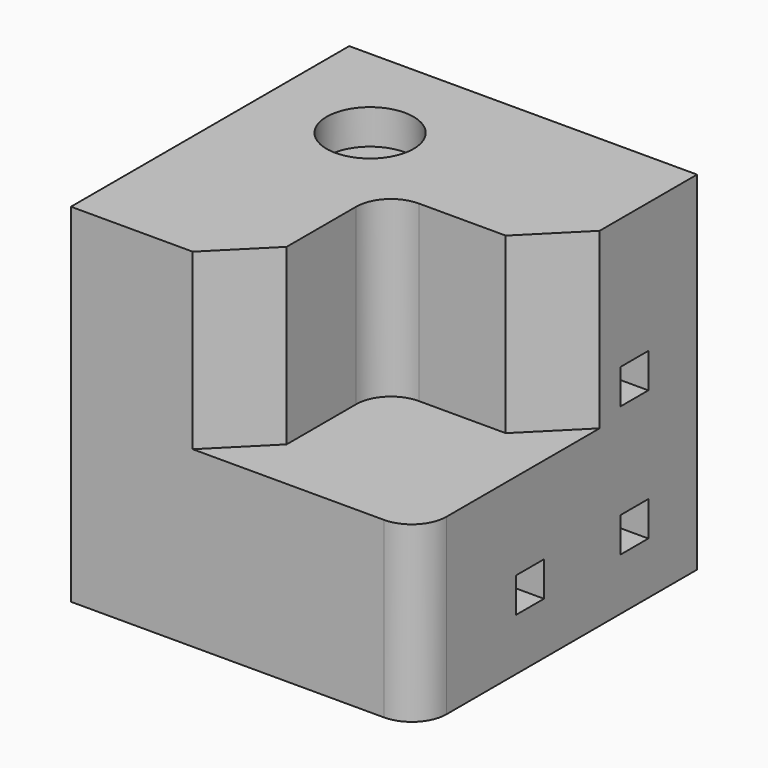
from build123d import *

# Parameters (mm, degrees)
F1_DEPTH  = 50
F2_DEPTH  = 50
F3_R      = 12.5
F4_DEPTH  = 10
F5_DEPTH  = 10
F6_W      = 10
F6_H      = 10
F7_DEPTH  = 100
F8_DEPTH  = 100
F9_DEPTH  = 100
F11_ANGLE = 90


with BuildPart() as f1:
    # F0 (on Right) → F1 (new body)
    with BuildSketch(Plane.YZ):
        with BuildLine():
            Line((66.8447806998, -31.704402437), (66.8447806998, 68.295597563))
            Line((66.8447806998, 68.295597563), (-33.1552193002, 68.295597563))
            Line((-33.1552193002, 68.295597563), (-33.1552193002, 33.295597563))
            Line((-33.1552193002, 33.295597563), (-18.1553634487, 18.2957411159))
            Line((-18.1553634487, 18.2957411159), (6.8449245505, 18.2957411159))
            ThreePointArc((6.8449245505, 18.2957411159), (13.9159923623, 15.3668089278), (16.8449245505, 8.2957411159))
            Line((16.8449245505, 8.2957411159), (16.8449245505, -16.7045462877))
            Line((16.8449245505, -16.7045462877), (31.8447806998, -31.704402437))
            Line((31.8447806998, -31.704402437), (66.8447806998, -31.704402437))
        make_face()
    extrude(amount=F1_DEPTH)

    # F1_face (on face) + F0 (on Right) → F2 (join)
    with BuildSketch(Plane(origin=(0, 26.0207710076, 27.4715879225), x_dir=(0, 1, 0), z_dir=(-1, 0, 0))):
        with BuildLine():
            Line((40.8240096922, -40.8240096405), (40.8240096922, 59.1759903595))
            Line((40.8240096922, 59.1759903595), (5.8240096922, 59.1759903595))
            Line((5.8240096922, 59.1759903595), (-9.1758464571, 44.1761342102))
            Line((-9.1758464571, 44.1761342102), (-9.1758464571, 19.1758468066))
            ThreePointArc((-9.1758464571, 19.1758468066), (-12.1047786452, 12.1047789947), (-19.1758464571, 9.1758468066))
            Line((-19.1758464571, 9.1758468066), (-44.1761344563, 9.1758468066))
            Line((-44.1761344563, 9.1758468066), (-59.1759903078, -5.8240096405))
            Line((-59.1759903078, -5.8240096405), (-59.1759903078, -40.8240096405))
            Line((-59.1759903078, -40.8240096405), (40.8240096922, -40.8240096405))
        make_face()
    with BuildSketch(Plane.YZ):
        with BuildLine():
            Line((66.8447806998, -31.704402437), (66.8447806998, 68.295597563))
            Line((66.8447806998, 68.295597563), (-33.1552193002, 68.295597563))
            Line((-33.1552193002, 68.295597563), (-33.1552193002, 33.295597563))
            Line((-33.1552193002, 33.295597563), (-18.1553634487, 18.2957411159))
            Line((-18.1553634487, 18.2957411159), (6.8449245505, 18.2957411159))
            ThreePointArc((6.8449245505, 18.2957411159), (13.9159923623, 15.3668089278), (16.8449245505, 8.2957411159))
            Line((16.8449245505, 8.2957411159), (16.8449245505, -16.7045462877))
            Line((16.8449245505, -16.7045462877), (31.8447806998, -31.704402437))
            Line((31.8447806998, -31.704402437), (66.8447806998, -31.704402437))
        make_face()
        with BuildLine():
            Line((-18.1553634487, 18.2957411159), (-33.1552193002, 33.295597563))
            Line((-33.1552193002, 33.295597563), (-33.1552193002, -21.704402437))
            ThreePointArc((-33.1552193002, -21.704402437), (-30.2262871121, -28.7754702488), (-23.1552193002, -31.704402437))
            Line((-23.1552193002, -31.704402437), (31.8447806998, -31.704402437))
            Line((31.8447806998, -31.704402437), (16.8449245505, -16.7045462877))
            Line((16.8449245505, -16.7045462877), (16.8449245505, 8.2957411159))
            ThreePointArc((16.8449245505, 8.2957411159), (13.9159923623, 15.3668089278), (6.8449245505, 18.2957411159))
            Line((6.8449245505, 18.2957411159), (-18.1553634487, 18.2957411159))
        make_face()
    extrude(amount=F2_DEPTH, dir=(-1, 0, 0))

    # F3 (on face) → F4 (join)
    with BuildSketch(Plane.YZ.offset(50)):
        with Locations((36.8447806998, 38.295597563)):
            Circle(F3_R)
    extrude(amount=-F4_DEPTH)

    # F3 (on face) → F5 (cut)
    with BuildSketch(Plane.YZ.offset(50)):
        with Locations((36.8447806998, 38.295597563)):
            Circle(F3_R)
    extrude(amount=-F5_DEPTH, mode=Mode.SUBTRACT)

    # F6 (on face) → F7 (cut)
    with BuildSketch(Plane(origin=(0, 0, -31.704402437), x_dir=(1, 0, 0), z_dir=(0, 0, -1))):
        with Locations((-30, -6.8447806998)):
            Rectangle(F6_W, F6_H)
    extrude(amount=-F7_DEPTH, mode=Mode.SUBTRACT)

    # F6 (on face) → F8 (cut)
    with BuildSketch(Plane(origin=(0, 0, -31.704402437), x_dir=(1, 0, 0), z_dir=(0, 0, -1))):
        with Locations((7.5, -44.3447806998)):
            Rectangle(F6_W, F6_H)
    extrude(amount=-F8_DEPTH, mode=Mode.SUBTRACT)

    # F6 (on face) → F9 (cut)
    with BuildSketch(Plane(origin=(0, 0, -31.704402437), x_dir=(1, 0, 0), z_dir=(0, 0, -1))):
        with Locations((-30, -44.3447806998)):
            Rectangle(F6_W, F6_H)
    extrude(amount=-F9_DEPTH, mode=Mode.SUBTRACT)


with BuildPart() as f1_1:
    # F10: moved
    add(f1.part.moved(Location((25, 60, 0))))


with BuildPart() as f1_2:
    # F11: moved
    add(f1_1.part.rotate(Axis((-25, 76.8447806998, 68.295597563), (0, -1, 0)), F11_ANGLE))


with BuildPart() as f1_3:
    # F12: moved
    add(f1_2.part.moved(Location((25, -25, -70))))


with BuildPart() as f1_4:
    # F13: moved
    add(f1_3.part.moved(Location((-1.5, 0, 0))))


solid = f1_4.part
